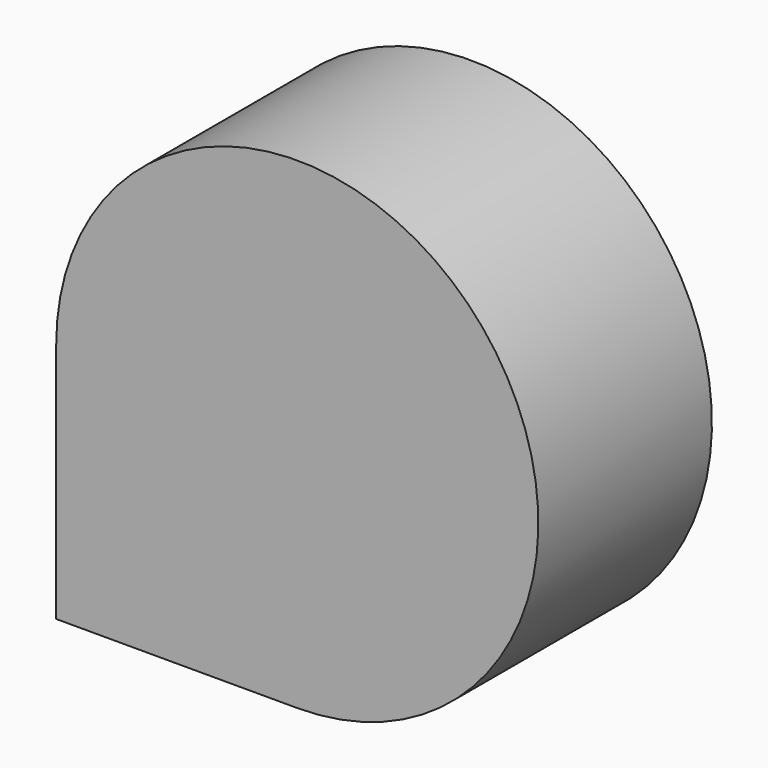
from build123d import *

# Parameters (mm, degrees)
F0_W      = 50.8
F0_H      = 50.8
F1_DEPTH  = 45.72
F1_FACE_W = 50.8
F1_FACE_H = 45.72


with BuildPart() as f1:
    # F0 (on Front) → F1 (new body)
    with BuildSketch(Plane.XZ):
        with Locations((-46.857094, 25.4)):
            Rectangle(F0_W, F0_H)
    extrude(amount=F1_DEPTH)

    # F1_face (on face) → F2 (revolve)
    with BuildSketch(Plane(origin=(-46.857094, -22.86, 50.8), x_dir=(1, 0, 0), z_dir=(0, 0, 1))):
        Rectangle(F1_FACE_W, F1_FACE_H)
    revolve(axis=Axis((-21.457094, -22.86, 50.8), (0, -1, 0)))


solid = f1.part
